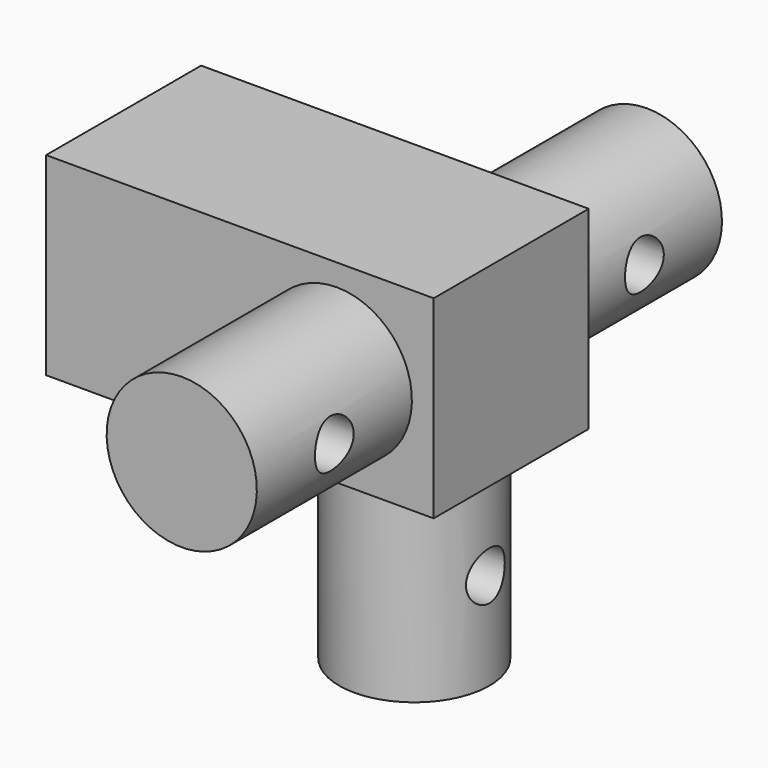
from build123d import *

# Parameters (mm, degrees)
CYLINDER017_R          = 2.5
CYLINDER017_DEPTH      = 30
CYLINDER018_R          = 2.5
CYLINDER018_DEPTH      = 30
CYLINDER019_R          = 2.5
CYLINDER019_DEPTH      = 30
CYLINDER016_R          = 7.75
CYLINDER016_DEPTH      = 30
CYLINDER015_R          = 7.75
CYLINDER015_DEPTH      = 60
BOX001_W               = 20
BOX001_H               = 40
BOX001_DEPTH           = 20
CUT001_ROLL_ANGLE      = 180
CUT001_PLACEMENT_ANGLE = 90


with BuildPart() as taladros003:
    # Cylinder017 → Cylinder017 (new body)
    with BuildSketch(Plane(origin=(20, 15, 0), x_dir=(1, 0, 0), z_dir=(0, -1, 0))):
        Circle(CYLINDER017_R)
    extrude(amount=CYLINDER017_DEPTH)


with BuildPart() as taladros004:
    # Cylinder018 → Cylinder018 (new body)
    with BuildSketch(Plane(origin=(-20, 15, 0), x_dir=(1, 0, 0), z_dir=(0, -1, 0))):
        Circle(CYLINDER018_R)
    extrude(amount=CYLINDER018_DEPTH)


with BuildPart() as obj1:
    # Cylinder019 → Cylinder019 (new body)
    with BuildSketch(Plane(origin=(0, 15, 20), x_dir=(1, 0, 0), z_dir=(0, -1, 0))):
        Circle(CYLINDER019_R)
    extrude(amount=CYLINDER019_DEPTH)

    # Fusion004: union Taladros003, Taladros004
    add(taladros003.part)
    add(taladros004.part)


with BuildPart() as obj2:
    # Cylinder016 → Cylinder016 (new body)
    with BuildSketch(Plane.XY):
        Circle(CYLINDER016_R)
    extrude(amount=CYLINDER016_DEPTH)


with BuildPart() as obj3:
    # Cylinder015 → Cylinder015 (new body)
    with BuildSketch(Plane(origin=(-30, 0, 0), x_dir=(0, 0, -1), z_dir=(1, 0, 0))):
        Circle(CYLINDER015_R)
    extrude(amount=CYLINDER015_DEPTH)


with BuildPart() as obj4:
    # Box001 → Box001 (new body)
    with BuildSketch(Plane(origin=(-10, -30, -10), x_dir=(1, 0, 0), z_dir=(0, 0, 1))):
        with Locations((10, 20)):
            Rectangle(BOX001_W, BOX001_H)
    extrude(amount=BOX001_DEPTH)

    # Fusion003: union obj2, obj3
    add(obj2.part)
    add(obj3.part)

    # Cut001: cut obj1
    add(obj1.part, mode=Mode.SUBTRACT)


with BuildPart() as obj4_1:
    # Cut001 roll: moved
    add(obj4.part.rotate(Axis((0, 0, 0), (1, 0, 0)), CUT001_ROLL_ANGLE))


with BuildPart() as obj4_2:
    # Cut001 placement: moved
    add(obj4_1.part.moved(Location((11, -12, -22))).rotate(Axis((11, -12, -22), (0, 0, 1)), CUT001_PLACEMENT_ANGLE))


solid = obj4_2.part
